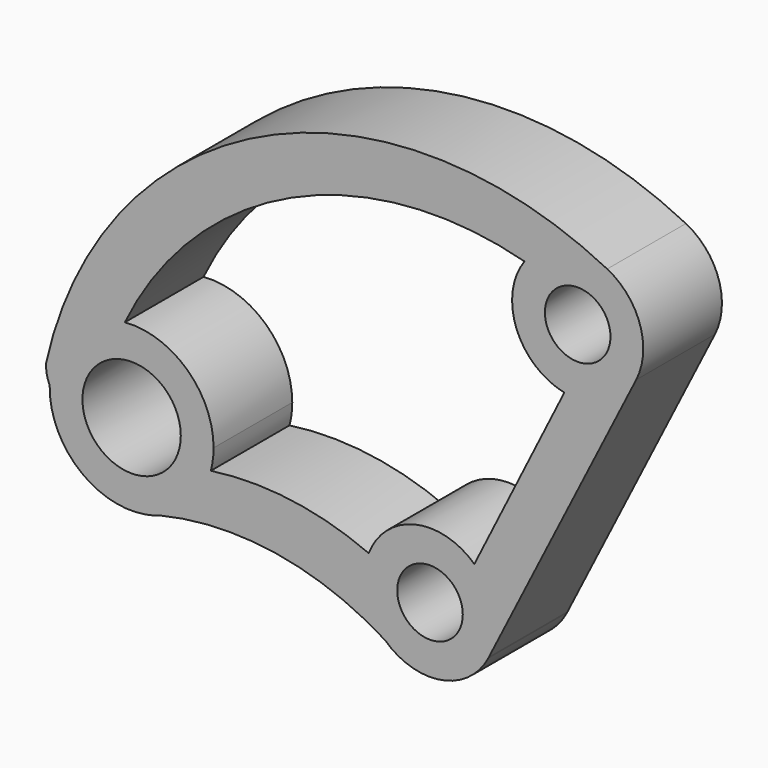
from build123d import *

# Parameters (mm, degrees)
F0_R     = 10
F0_R_2   = 15
F1_DEPTH = 30


with BuildPart() as f1:
    # F0 (on Front) → F1 (new body)
    with BuildSketch(Plane.XZ):
        with BuildLine():
            ThreePointArc((28.813993, 100.969074), (40.295021, 108.709211), (54.051935, 107.137241))
            ThreePointArc((54.051935, 107.137241), (-51.293808, 108.48477), (-117.102208, 26.212077))
            ThreePointArc((-117.102208, 26.212077), (-116.900259, 23.343074), (-116.005306, 20.609758))
            ThreePointArc((-116.005306, 20.609758), (-109.216379, 37.185393), (-93.082076, 44.965206))
            ThreePointArc((-93.082076, 44.965206), (-42.243413, 94.970846), (28.813993, 100.969074))
        make_face()
        with BuildLine():
            ThreePointArc((62.899387, 80.272182), (64.03964, 95.537093), (54.051935, 107.137241))
            ThreePointArc((54.051935, 107.137241), (40.295021, 108.709211), (28.813993, 100.969074))
            ThreePointArc((28.813993, 100.969074), (26.403721, 82.030732), (40.977357, 69.698688))
            Line((40.977357, 69.698688), (13.529719, 14.729111))
            ThreePointArc((13.529719, 14.729111), (-4.577405, 19.469139), (-18.675457, 7.157326))
            ThreePointArc((-18.675457, 7.157326), (-19.497844, -4.453546), (-13.715889, -14.555906))
            ThreePointArc((-13.715889, -14.555906), (3.357623, -19.716145), (17.760709, -9.1955))
            Line((17.760709, -9.1955), (17.949545, -8.821214))
            Line((17.949545, -8.821214), (62.899387, 80.272182))
        make_face()
        Circle(F0_R, mode=Mode.SUBTRACT)
        with Locations((45.043279, 89.281034)):
            Circle(F0_R, mode=Mode.SUBTRACT)
        with BuildLine():
            ThreePointArc((-93.082076, 44.965206), (-109.216379, 37.185393), (-116.005306, 20.609758))
            ThreePointArc((-116.005306, 20.609758), (-107.344528, 1.124031), (-86.801114, -4.591799))
            ThreePointArc((-86.801114, -4.591799), (-84.59035, -3.970516), (-82.364455, -3.405839))
            ThreePointArc((-82.364455, -3.405839), (-72.52446, 3.22173), (-66.847762, 13.639277))
            ThreePointArc((-66.847762, 13.639277), (-66.221483, 16.818037), (-66.011548, 20.051096))
            ThreePointArc((-66.011548, 20.051096), (-74.08174, 38.446247), (-93.082076, 44.965206))
        make_face()
        with Locations((-91.011548, 20.051096)):
            Circle(F0_R_2, mode=Mode.SUBTRACT)
        with BuildLine():
            ThreePointArc((17.760709, -9.1955), (17.856108, -9.008852), (17.949545, -8.821214))
            Line((17.949545, -8.821214), (17.760709, -9.1955))
        make_face()
        with BuildLine():
            ThreePointArc((-82.364455, -3.405839), (-84.59035, -3.970516), (-86.801114, -4.591799))
            ThreePointArc((-86.801114, -4.591799), (-84.555495, -4.10091), (-82.364455, -3.405839))
        make_face()
        with BuildLine():
            ThreePointArc((-66.847762, 13.639277), (-72.52446, 3.22173), (-82.364455, -3.405839))
            ThreePointArc((-82.364455, -3.405839), (-46.919624, -2.081898), (-13.715889, -14.555906))
            ThreePointArc((-13.715889, -14.555906), (-19.497844, -4.453546), (-18.675457, 7.157326))
            ThreePointArc((-18.675457, 7.157326), (-42.315738, 13.711913), (-66.847762, 13.639277))
        make_face()
    extrude(amount=F1_DEPTH)


solid = f1.part
